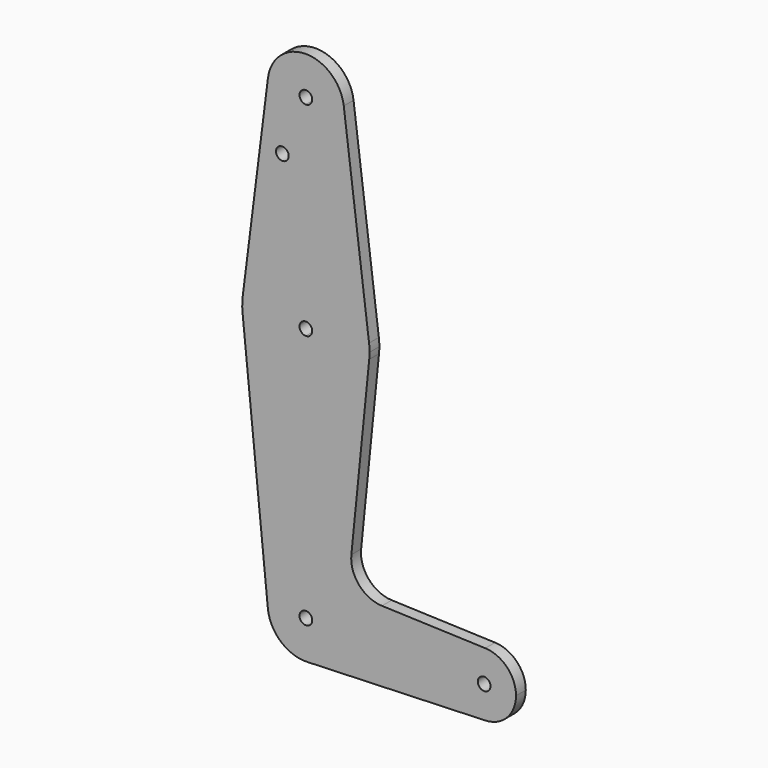
from build123d import *

# Parameters (mm, degrees)
F0_R     = 1.5875
F1_DEPTH = 3.048


with BuildPart() as f1:
    # F0 (on Front) → F1 (new body)
    with BuildSketch(Plane.XZ):
        with BuildLine():
            ThreePointArc((15.7996575306, -21.2398599566), (10.6516022513, -31.4263150764), (0, -35.5262797768))
            Line((0, -35.5262797768), (0, -73.6262803702))
            ThreePointArc((0, -73.6262803702), (6.7351920908, -76.4160882794), (9.525, -83.1512803702))
            Line((9.525, -83.1512803702), (36.5125, -83.1512803702))
            ThreePointArc((36.5125, -83.1512803702), (38.9384772891, -77.4392733974), (44.7334823388, -75.2188441735))
            Line((44.7334823388, -75.2188441735), (18.9688759581, -74.2980922583))
            ThreePointArc((18.9688759581, -74.2980922583), (13.2622972147, -71.579762084), (11.3425169113, -65.5574034531))
            Line((11.3425169113, -65.5574034531), (15.7996575306, -21.2398599566))
        make_face()
        with BuildLine():
            ThreePointArc((0, -35.5262797768), (-10.6469449833, -31.4226754624), (-15.7911935399, -21.2377006154))
            Line((-15.7911935399, -21.2377006154), (-9.4773204241, -84.1031325533))
            ThreePointArc((-9.4773204241, -84.1031325533), (-7.0637106766, -76.7614747019), (0, -73.6262803702))
            Line((0, -73.6262803702), (0, -35.5262797768))
        make_face()
        with BuildLine():
            ThreePointArc((15.7996575306, -21.2398599566), (10.6516022513, -31.4263150764), (0, -35.5262797768))
            Line((0, -35.5262797768), (0, -73.6262803702))
            ThreePointArc((0, -73.6262803702), (6.7351920908, -76.4160882794), (9.525, -83.1512803702))
            Line((9.525, -83.1512803702), (36.5125, -83.1512803702))
            ThreePointArc((36.5125, -83.1512803702), (38.9384772891, -77.4392733974), (44.7334823388, -75.2188441735))
            Line((44.7334823388, -75.2188441735), (18.9688759581, -74.2980922583))
            ThreePointArc((18.9688759581, -74.2980922583), (13.2622972147, -71.579762084), (11.3425169113, -65.5574034531))
            Line((11.3425169113, -65.5574034531), (15.7996575306, -21.2398599566))
        make_face()
        with BuildLine():
            ThreePointArc((9.525, -83.1512803702), (6.8544083519, -89.7651076392), (0.3401787622, -92.6702038077))
            Line((0.3401787622, -92.6702038077), (44.7334822099, -91.0837165714))
            ThreePointArc((44.7334822099, -91.0837165714), (38.9384772427, -88.8632872981), (36.5125, -83.1512803702))
            Line((36.5125, -83.1512803702), (9.525, -83.1512803702))
        make_face()
        with BuildLine():
            ThreePointArc((0, -73.6262803702), (-7.0637106766, -76.7614747019), (-9.4773204241, -84.1031325533))
            ThreePointArc((-9.4773204241, -84.1031325533), (-6.262628594, -90.3279863062), (0.3401787622, -92.6702038077))
            ThreePointArc((0.3401787622, -92.6702038077), (6.8544083519, -89.7651076392), (9.525, -83.1512803702))
            Line((9.525, -83.1512803702), (1.5875, -83.1512803702))
            ThreePointArc((1.5875, -83.1512803702), (-1.1225320151, -84.2738123853), (0, -81.5637803702))
            Line((0, -81.5637803702), (0, -73.6262803702))
        make_face()
        with BuildLine():
            ThreePointArc((9.525, -83.1512803702), (6.7351920908, -76.4160882794), (0, -73.6262803702))
            Line((0, -73.6262803702), (0, -81.5637803702))
            ThreePointArc((0, -81.5637803702), (1.1225320151, -82.028748355), (1.5875, -83.1512803702))
            Line((1.5875, -83.1512803702), (9.525, -83.1512803702))
        make_face()
        with BuildLine():
            ThreePointArc((36.5125, -83.1512803702), (38.9384772427, -88.8632872981), (44.7334822099, -91.0837165714))
            ThreePointArc((44.7334822099, -91.0837165714), (50.162006928, -88.6628031275), (52.3875, -83.1512803702))
            ThreePointArc((52.3875, -83.1512803702), (50.1620069728, -77.6397576593), (44.7334823388, -75.2188441735))
            ThreePointArc((44.7334823388, -75.2188441735), (38.9384772891, -77.4392733974), (36.5125, -83.1512803702))
        make_face()
        with BuildLine():
            ThreePointArc((46.0375, -83.1512803702), (44.45, -84.7387803702), (42.8625, -83.1512803702))
            ThreePointArc((42.8625, -83.1512803702), (44.45, -81.5637803702), (46.0375, -83.1512803702))
        make_face(mode=Mode.SUBTRACT)
        with BuildLine():
            ThreePointArc((-9.4503946609, 32.3385371594), (-7.1434808381, 24.8482191326), (0, 21.6237196298))
            ThreePointArc((0, 21.6237196298), (6.7351920908, 24.413527539), (9.525, 31.1487196298))
            ThreePointArc((9.525, 31.1487196298), (9.506279403, 31.7456089929), (9.4501911996, 32.3401520829))
            ThreePointArc((9.4501911996, 32.3401520829), (-0.0008138449, 40.6737195951), (-9.4503946609, 32.3385371594))
        make_face()
        with BuildLine():
            ThreePointArc((1.5875, 31.1487196298), (1.1225320151, 30.0261876147), (0, 29.5612196298))
            ThreePointArc((0, 29.5612196298), (-1.1225320151, 32.271251645), (1.5875, 31.1487196298))
        make_face(mode=Mode.SUBTRACT)
        with BuildLine():
            Line((0, -3.7762809635), (0, 21.6237196298))
            ThreePointArc((0, 21.6237196298), (-7.1434808381, 24.8482191326), (-9.4503946609, 32.3385371594))
            Line((-9.4503946609, 32.3385371594), (-15.7463172334, -17.6682509286))
            ThreePointArc((-15.7463172334, -17.6682509286), (-10.4981211009, -7.7469145664), (0, -3.7762809635))
        make_face()
        with Locations((-5.8585847728, 16.8739196298)):
            Circle(F0_R, mode=Mode.SUBTRACT)
        with BuildLine():
            ThreePointArc((9.525, 31.1487196298), (6.7351920908, 24.413527539), (0, 21.6237196298))
            Line((0, 21.6237196298), (0, -3.7762809635))
            ThreePointArc((0, -3.7762809635), (10.5025294043, -7.7431463911), (15.7546591362, -17.6655593278))
            Line((15.7546591362, -17.6655593278), (9.4501911996, 32.3401520829))
            ThreePointArc((9.4501911996, 32.3401520829), (9.506279403, 31.7456089929), (9.525, 31.1487196298))
        make_face()
        with BuildLine():
            ThreePointArc((15.7546591362, -17.6655593278), (10.5025294043, -7.7431463911), (0, -3.7762809635))
            Line((0, -3.7762809635), (0, -18.063786304))
            ThreePointArc((0, -18.063786304), (1.1253368703, -18.5272148018), (1.5918405063, -19.6512803702))
            ThreePointArc((1.5918405063, -19.6512803702), (1.1253368703, -20.7753459385), (0, -21.2387744363))
            Line((0, -21.2387744363), (0, -35.5262797768))
            ThreePointArc((0, -35.5262797768), (10.6516022513, -31.4263150764), (15.7996575306, -21.2398599566))
            ThreePointArc((15.7996575306, -21.2398599566), (15.8594072479, -20.446568758), (15.8793405063, -19.6512803702))
            ThreePointArc((15.8793405063, -19.6512803702), (15.8481395023, -18.6564646206), (15.7546591362, -17.6655593278))
        make_face()
        with BuildLine():
            Line((0, -18.063786304), (0, -3.7762809635))
            ThreePointArc((0, -3.7762809635), (-10.4981211009, -7.7469145664), (-15.7463172334, -17.6682509286))
            ThreePointArc((-15.7463172334, -17.6682509286), (-15.8694050131, -19.4517103715), (-15.7911935399, -21.2377006154))
            ThreePointArc((-15.7911935399, -21.2377006154), (-10.6469449833, -31.4226754624), (0, -35.5262797768))
            Line((0, -35.5262797768), (0, -21.2387744363))
            ThreePointArc((0, -21.2387744363), (-1.5831594937, -19.6512803702), (0, -18.063786304))
        make_face()
    extrude(amount=F1_DEPTH)


solid = f1.part
